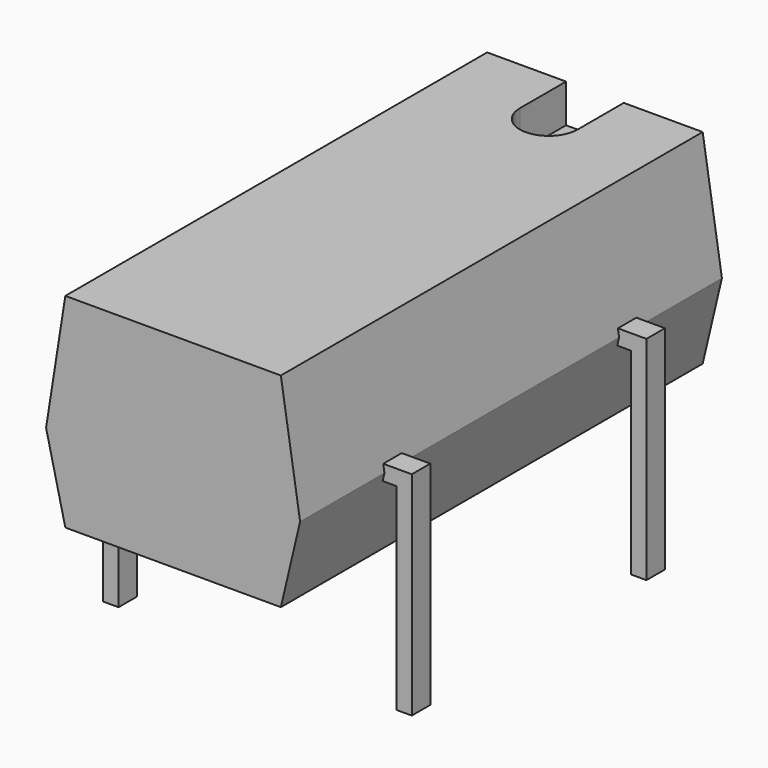
from build123d import *

# Parameters (mm, degrees)
PAD002_DEPTH = 0.3
PAD_DEPTH    = 6.85
POCKET_DEPTH = 1
PAD001_DEPTH = 0.3


with BuildPart() as pad002:
    # Sketch002 → Pad002 (new body, symmetric)
    with BuildSketch(Plane.XZ.offset(7.62)):
        Polygon((-0.2, -3), (0.2, -3), (0.2, 2.12), (7.42, 2.12), (7.42, -3), (7.82, -3), (7.82, 2.52), (-0.2, 2.52), align=None)
    extrude(amount=PAD002_DEPTH, both=True)


with BuildPart() as pocket:
    # Sketch → Pad (new body, symmetric)
    with BuildSketch(Plane.XZ.offset(3.81)):
        Polygon((1.01, 0.2), (6.61, 0.2), (7.11, 2.32), (6.61, 5.5), (1.01, 5.5), (0.51, 2.32), align=None)
    extrude(amount=PAD_DEPTH, both=True)

    # Sketch003 → Pocket (cut)
    with BuildSketch(Plane(origin=(0, -3.81, 5.5), x_dir=(-1, 0, 0), z_dir=(0, 0, 1))):
        with BuildLine():
            ThreePointArc((-3.06, -5.35), (-3.81, -4.6), (-4.56, -5.35))
            Line((-4.56, -5.35), (-4.56, -6.85))
            Line((-4.56, -6.85), (-3.06, -6.85))
            Line((-3.06, -6.85), (-3.06, -5.35))
        make_face()
    extrude(amount=-POCKET_DEPTH, mode=Mode.SUBTRACT)


with BuildPart() as obj1:
    # Sketch001 → Pad001 (new body, symmetric)
    with BuildSketch(Plane.XZ):
        Polygon((-0.2, -3), (0.2, -3), (0.2, 2.12), (7.42, 2.12), (7.42, -3), (7.82, -3), (7.82, 2.52), (-0.2, 2.52), align=None)
    extrude(amount=PAD001_DEPTH, both=True)

    add(pad002.part)
    add(pocket.part)


solid = obj1.part
